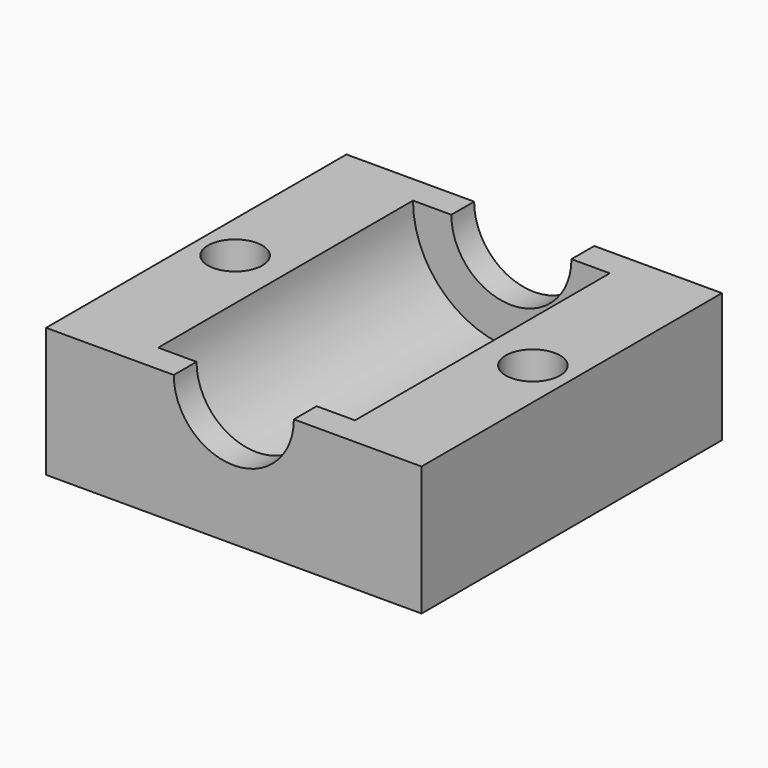
from build123d import *

# Parameters (mm, degrees)
SKETCH_W        = 29
SKETCH_H        = 29
SKETCH_R        = 2.1
PAD_DEPTH       = 10
SKETCH001_R     = 7.6
POCKET_DEPTH    = 35
SKETCH002_W     = 15.2
SKETCH002_H     = 2.2
PAD001_DEPTH    = 9
SKETCH003_R     = 4.638792
POCKET001_DEPTH = 35


with BuildPart() as part:
    # Sketch → Pad (new body)
    with BuildSketch(Plane(origin=(-33.3, -30, 47), x_dir=(1, 0, 0), z_dir=(0, 0, -1))):
        with Locations((-26.451358, -18.618412)):
            Rectangle(SKETCH_W, SKETCH_H)
        with Locations((-37.951358, -18.618412)):
            Circle(SKETCH_R, mode=Mode.SUBTRACT)
        with Locations((-14.951358, -18.618412)):
            Circle(SKETCH_R, mode=Mode.SUBTRACT)
    extrude(amount=PAD_DEPTH)

    # Sketch001 → Pocket (cut)
    with BuildSketch(Plane(origin=(-33.3, 3.118412, 47), x_dir=(1, 0, 0), z_dir=(0, 1, 0))):
        with Locations((-26.451358, 0)):
            Circle(SKETCH001_R)
    extrude(amount=-POCKET_DEPTH, mode=Mode.SUBTRACT)

    # Sketch002 → Pad001 (new body)
    with BuildSketch(Plane(origin=(-33.3, -30, 47), x_dir=(1, 0, 0), z_dir=(0, 0, 1))):
        with Locations((-26.451358, 32.018412)):
            Rectangle(SKETCH002_W, SKETCH002_H)
        with Locations((-26.451358, 5.218412)):
            Rectangle(SKETCH002_W, SKETCH002_H)
    extrude(amount=-PAD001_DEPTH)

    # Sketch003 → Pocket001 (cut)
    with BuildSketch(Plane(origin=(-33.3, -25.881588, 47), x_dir=(-1, 0, 0), z_dir=(0, -1, 0))):
        with Locations((26.451358, 0)):
            Circle(SKETCH003_R)
    extrude(amount=-POCKET001_DEPTH, mode=Mode.SUBTRACT)


solid = part.part
